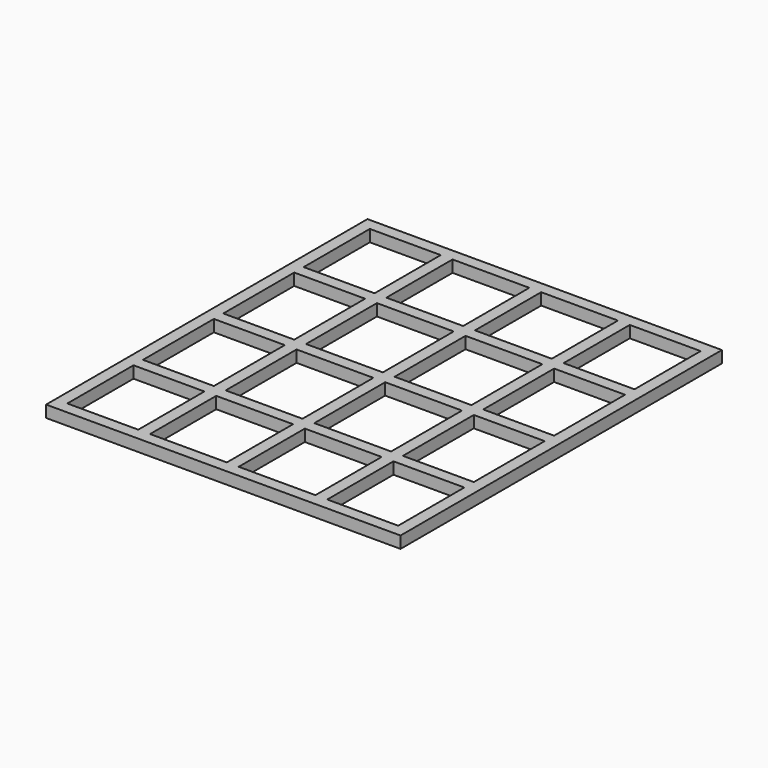
from build123d import *

# Parameters (mm, degrees)
F0_W     = 30
F0_H     = 35
F0_W_2   = 32.5
F0_H_2   = 37.5
F1_DEPTH = 5


with BuildPart() as f1:
    # F0 (on Top) → F1 (new body)
    with BuildSketch(Plane.XY):
        Polygon((-37.5, 85), (-75, 85), (-75, 42.5), (-75, 0), (-75, -42.5), (-75, -85), (-37.5, -85), (0, -85), (37.5, -85), (75, -85), (75, -42.5), (75, 0), (75, 42.5), (75, 85), (37.5, 85), (0, 85), align=None)
        with Locations((-55, -62.5)):
            Rectangle(F0_W, F0_H, mode=Mode.SUBTRACT)
        with Locations((-18.75, -62.5)):
            Rectangle(F0_W_2, F0_H, mode=Mode.SUBTRACT)
        with Locations((-55, -21.25)):
            Rectangle(F0_W, F0_H_2, mode=Mode.SUBTRACT)
        with Locations((-18.75, -21.25)):
            Rectangle(F0_W_2, F0_H_2, mode=Mode.SUBTRACT)
        with Locations((18.75, -62.5)):
            Rectangle(F0_W_2, F0_H, mode=Mode.SUBTRACT)
        with Locations((55, -62.5)):
            Rectangle(F0_W, F0_H, mode=Mode.SUBTRACT)
        with Locations((18.75, -21.25)):
            Rectangle(F0_W_2, F0_H_2, mode=Mode.SUBTRACT)
        with Locations((55, -21.25)):
            Rectangle(F0_W, F0_H_2, mode=Mode.SUBTRACT)
        with Locations((-55, 21.25)):
            Rectangle(F0_W, F0_H_2, mode=Mode.SUBTRACT)
        with Locations((-18.75, 21.25)):
            Rectangle(F0_W_2, F0_H_2, mode=Mode.SUBTRACT)
        with Locations((-55, 62.5)):
            Rectangle(F0_W, F0_H, mode=Mode.SUBTRACT)
        with Locations((-18.75, 62.5)):
            Rectangle(F0_W_2, F0_H, mode=Mode.SUBTRACT)
        with Locations((18.75, 21.25)):
            Rectangle(F0_W_2, F0_H_2, mode=Mode.SUBTRACT)
        with Locations((55, 21.25)):
            Rectangle(F0_W, F0_H_2, mode=Mode.SUBTRACT)
        with Locations((18.75, 62.5)):
            Rectangle(F0_W_2, F0_H, mode=Mode.SUBTRACT)
        with Locations((55, 62.5)):
            Rectangle(F0_W, F0_H, mode=Mode.SUBTRACT)
    extrude(amount=F1_DEPTH)


solid = f1.part
